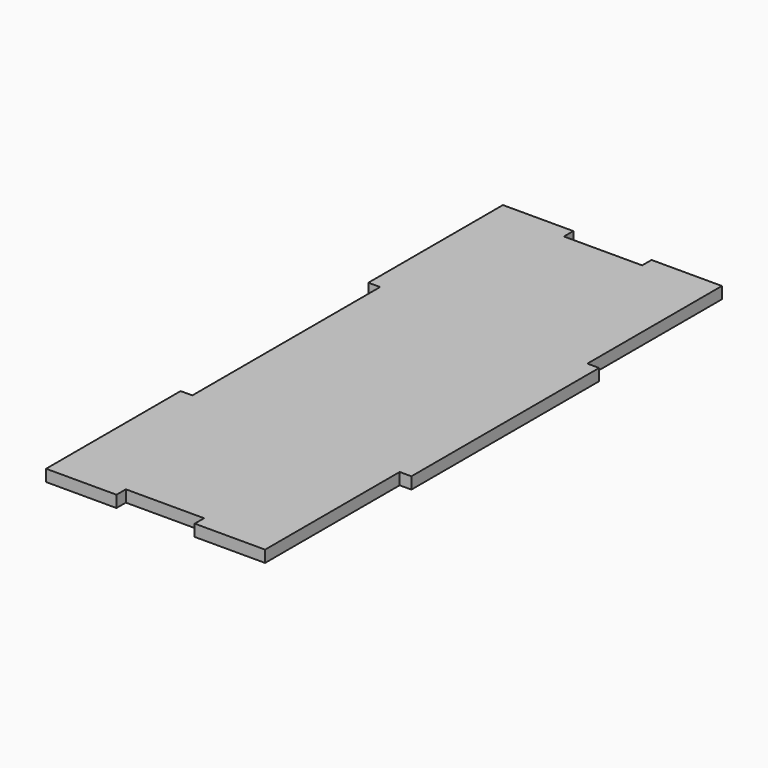
from build123d import *

# Parameters (mm, degrees)
F1_DEPTH = 3


with BuildPart() as f1:
    # F0 (on Top) → F1 (new body)
    with BuildSketch(Plane.XY):
        Polygon((10, -73), (28, -73), (28, -30), (31, -30), (31, 30), (28, 30), (28, 73), (10, 73), (10, 70), (-10, 70), (-10, 73), (-28, 73), (-28, 30), (-25, 30), (-25, -30), (-28, -30), (-28, -73), (-10, -73), (-10, -70), (10, -70), align=None)
    extrude(amount=F1_DEPTH)


solid = f1.part
